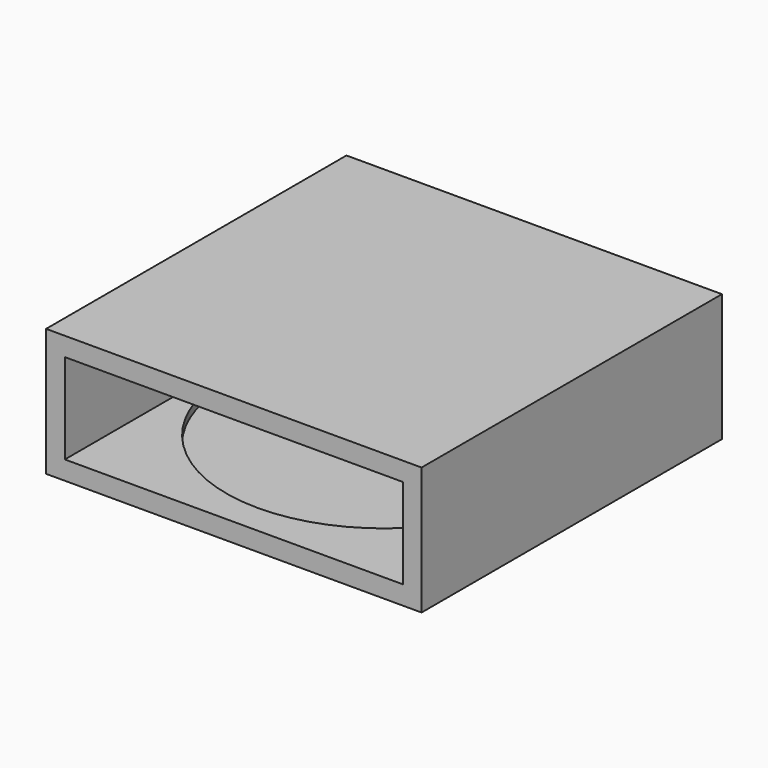
from build123d import *

# Parameters (mm, degrees)
F0_W     = 50
F0_H     = 50
F1_DEPTH = 17
F2_T     = -2.5
F3_R     = 21
F4_DEPTH = 1


with BuildPart() as f1:
    # F0 (on Top) → F1 (new body)
    with BuildSketch(Plane.XY):
        Rectangle(F0_W, F0_H)
    extrude(amount=F1_DEPTH)

    # F2
    f2_openings = [f1.faces().sort_by_distance(p)[0] for p in [
        (0, -25, 8.5),
    ]]
    offset(amount=F2_T, openings=f2_openings)

    # F3 (on face) → F4 (cut)
    with BuildSketch(Plane.XY.offset(2.5)):
        Circle(F3_R)
    extrude(amount=-F4_DEPTH, mode=Mode.SUBTRACT)


solid = f1.part
